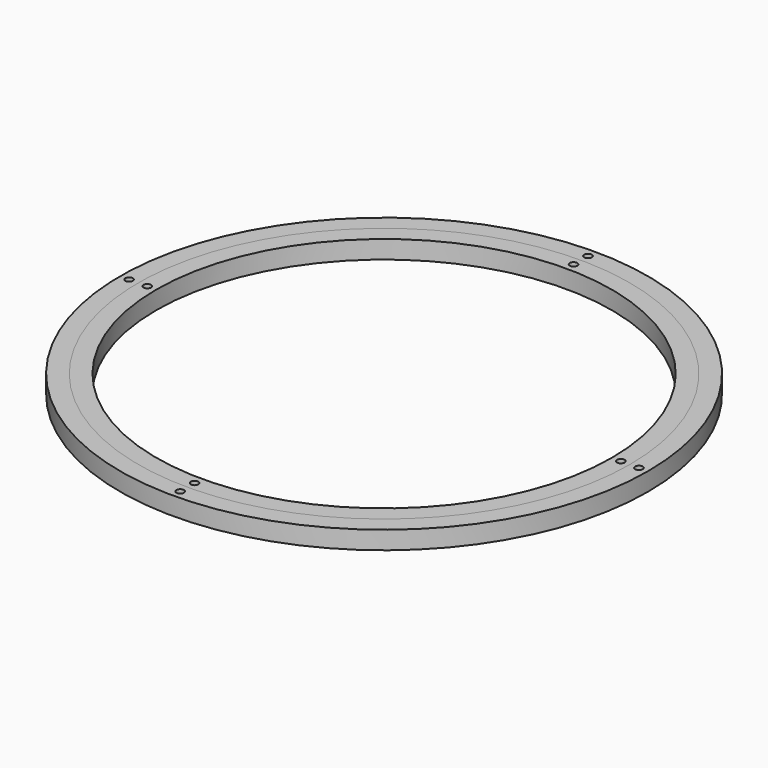
from build123d import *

# Parameters (mm, degrees)
F0_R     = 175
F0_R_2   = 163
F1_DEPTH = 12
F2_R     = 163
F2_R_2   = 151
F3_DEPTH = 12
F4_R     = 2.5
F5_DEPTH = 12
F6_R     = 2.5
F7_DEPTH = 12


with BuildPart() as f1:
    # F0 (on Top) → F1 (new body)
    with BuildSketch(Plane.XY):
        Circle(F0_R)
        Circle(F0_R_2, mode=Mode.SUBTRACT)
    extrude(amount=F1_DEPTH)

    # F6 (on face) → F7 (cut)
    with BuildSketch(Plane.XY.offset(12)):
        with BuildLine():
            ThreePointArc((0, 166.5), (1.767767, 167.232233), (2.5, 169))
            ThreePointArc((2.5, 169), (-1.767767, 170.767767), (0, 166.5))
        make_face()
        with Locations((-169, 0)):
            Circle(F6_R)
        with Locations((0, -169)):
            Circle(F6_R)
        with Locations((169, 0)):
            Circle(F6_R)
    extrude(amount=-F7_DEPTH, mode=Mode.SUBTRACT)


with BuildPart() as f3:
    # F2 (on Top) → F3 (new body)
    with BuildSketch(Plane.XY):
        Circle(F2_R)
        Circle(F2_R_2, mode=Mode.SUBTRACT)
    extrude(amount=F3_DEPTH)

    # F4 (on face) → F5 (cut)
    with BuildSketch(Plane.XY.offset(12)):
        with BuildLine():
            ThreePointArc((0, 154.5), (1.767767, 155.232233), (2.5, 157))
            ThreePointArc((2.5, 157), (-1.767767, 158.767767), (0, 154.5))
        make_face()
        with Locations((-157, 0)):
            Circle(F4_R)
        with Locations((0, -157)):
            Circle(F4_R)
        with Locations((157, 0)):
            Circle(F4_R)
    extrude(amount=-F5_DEPTH, mode=Mode.SUBTRACT)


solid = Compound([f1.part, f3.part])
